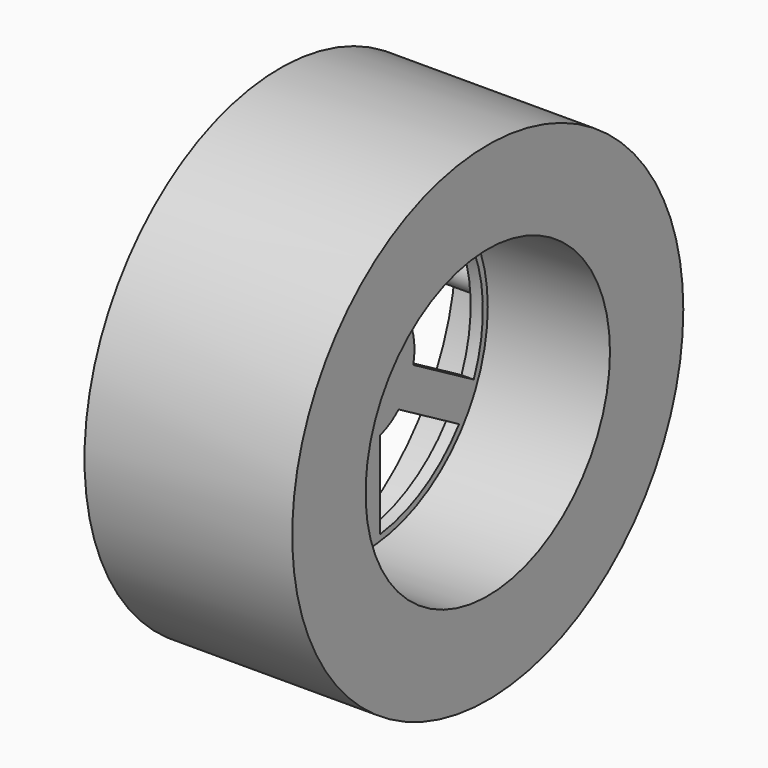
from build123d import *

# Parameters (mm, degrees)
F0_R      = 20.001471
F1_DEPTH  = 17
F2_R      = 18.001471
F2_R_2    = 14.001471
F3_DEPTH  = 15
F3_FACE_R = 14.001471
F4_DEPTH  = 6
F6_DEPTH  = 25
F7_R      = 12.5
F8_DEPTH  = 10
F9_R      = 5
F10_DEPTH = 1
F11_R     = 2.5
F12_DEPTH = 8
F13_R     = 1.5
F14_DEPTH = 6


with BuildPart() as f1:
    # F0 (on Right) → F1 (new body)
    with BuildSketch(Plane.YZ):
        Circle(F0_R)
    extrude(amount=F1_DEPTH)

    # F2 (on face) → F3 (cut)
    with BuildSketch(Plane(origin=(0, 0, 0), x_dir=(0, -1, 0), z_dir=(-1, 0, 0))):
        Circle(F2_R)
        with BuildLine():
            ThreePointArc((0, -17.501471), (-1.5, -16.001471), (0, -14.501471))
            ThreePointArc((0, -14.501471), (1.06066, -14.940811), (1.5, -16.001471))
            ThreePointArc((1.5, -16.001471), (1.06066, -17.062132), (0, -17.501471))
        make_face(mode=Mode.SUBTRACT)
        with BuildLine():
            ThreePointArc((-14.501471, 0), (-16.001471, -1.5), (-17.501471, 0))
            ThreePointArc((-17.501471, 0), (-16.001471, 1.5), (-14.501471, 0))
        make_face(mode=Mode.SUBTRACT)
        Circle(F2_R_2, mode=Mode.SUBTRACT)
        with BuildLine():
            ThreePointArc((17.501471, 0), (16.001471, -1.5), (14.501471, 0))
            ThreePointArc((14.501471, 0), (16.001471, 1.5), (17.501471, 0))
        make_face(mode=Mode.SUBTRACT)
        with BuildLine():
            ThreePointArc((0, 14.501471), (-1.5, 16.001471), (0, 17.501471))
            ThreePointArc((0, 17.501471), (1.06066, 17.062132), (1.5, 16.001471))
            ThreePointArc((1.5, 16.001471), (1.06066, 14.940811), (0, 14.501471))
        make_face(mode=Mode.SUBTRACT)
    extrude(amount=-F3_DEPTH, mode=Mode.SUBTRACT)

    # F3_face (on face) → F4 (cut)
    with BuildSketch(Plane(origin=(0, 0, 0), x_dir=(0, 1, 0), z_dir=(-1, 0, 0))):
        Circle(F3_FACE_R)
    extrude(amount=-F4_DEPTH, mode=Mode.SUBTRACT)

    # F5 (on face) → F6 (cut)
    with BuildSketch(Plane(origin=(6, 0, 0), x_dir=(0, -1, 0), z_dir=(-1, 0, 0))):
        with BuildLine():
            Line((-11.06208, -4.654644), (-4.880678, -1.08581))
            ThreePointArc((-4.880678, -1.08581), (-4.993956, 0.245766), (-4.750481, 1.559784))
            Line((-4.750481, 1.559784), (-10.551599, 5.71831))
            ThreePointArc((-10.551599, 5.71831), (-11.986965, 0.58991), (-11.06208, -4.654644))
        make_face()
        with BuildLine():
            ThreePointArc((-3.002631, 3.998025), (-2.284139, 4.447776), (-1.5, 4.769696))
            Line((-1.5, 4.769696), (-1.5, 11.907364))
            ThreePointArc((-1.5, 11.907364), (-5.482605, 10.675971), (-8.803749, 8.156551))
            Line((-8.803749, 8.156551), (-3.002631, 3.998025))
        make_face()
        with BuildLine():
            ThreePointArc((1.5, 4.769696), (2.5, 4.330127), (3.380678, 3.683886))
            Line((3.380678, 3.683886), (9.56208, 7.25272))
            ThreePointArc((9.56208, 7.25272), (6.000736, 10.393579), (1.5, 11.907364))
            Line((1.5, 11.907364), (1.5, 4.769696))
        make_face()
        with BuildLine():
            ThreePointArc((4.880678, 1.08581), (4.97008, 0.546173), (5, 0))
            ThreePointArc((5, 0), (4.937226, -0.789808), (4.750481, -1.559784))
            Line((4.750481, -1.559784), (10.551599, -5.71831))
            ThreePointArc((10.551599, -5.71831), (11.633358, -2.949627), (12.001471, 0))
            ThreePointArc((12.001471, 0), (11.76428, 2.374245), (11.06208, 4.654644))
            Line((11.06208, 4.654644), (4.880678, 1.08581))
        make_face()
        with BuildLine():
            Line((8.803749, -8.156551), (3.002631, -3.998025))
            ThreePointArc((3.002631, -3.998025), (2.284139, -4.447776), (1.5, -4.769696))
            Line((1.5, -4.769696), (1.5, -11.907364))
            ThreePointArc((1.5, -11.907364), (5.482605, -10.675971), (8.803749, -8.156551))
        make_face()
        with BuildLine():
            Line((-1.5, -11.907364), (-1.5, -4.769696))
            ThreePointArc((-1.5, -4.769696), (-2.5, -4.330127), (-3.380678, -3.683886))
            Line((-3.380678, -3.683886), (-9.56208, -7.25272))
            ThreePointArc((-9.56208, -7.25272), (-6.000736, -10.393579), (-1.5, -11.907364))
        make_face()
    extrude(amount=-F6_DEPTH, mode=Mode.SUBTRACT)

    # F7 (on face) → F8 (cut)
    with BuildSketch(Plane.YZ.offset(17)):
        Circle(F7_R)
    extrude(amount=-F8_DEPTH, mode=Mode.SUBTRACT)

    # F9 (on face) → F10 (join)
    with BuildSketch(Plane(origin=(6, 0, 0), x_dir=(0, -1, 0), z_dir=(-1, 0, 0))):
        Circle(F9_R)
    extrude(amount=F10_DEPTH)

    # F11 (on face) → F12 (join)
    with BuildSketch(Plane(origin=(5, 0, 0), x_dir=(0, -1, 0), z_dir=(-1, 0, 0))):
        Circle(F11_R)
    extrude(amount=F12_DEPTH)

    # F13 (on face) → F14 (cut)
    with BuildSketch(Plane(origin=(-3, 0, 0), x_dir=(0, -1, 0), z_dir=(-1, 0, 0))):
        Circle(F13_R)
    extrude(amount=-F14_DEPTH, mode=Mode.SUBTRACT)


solid = f1.part
